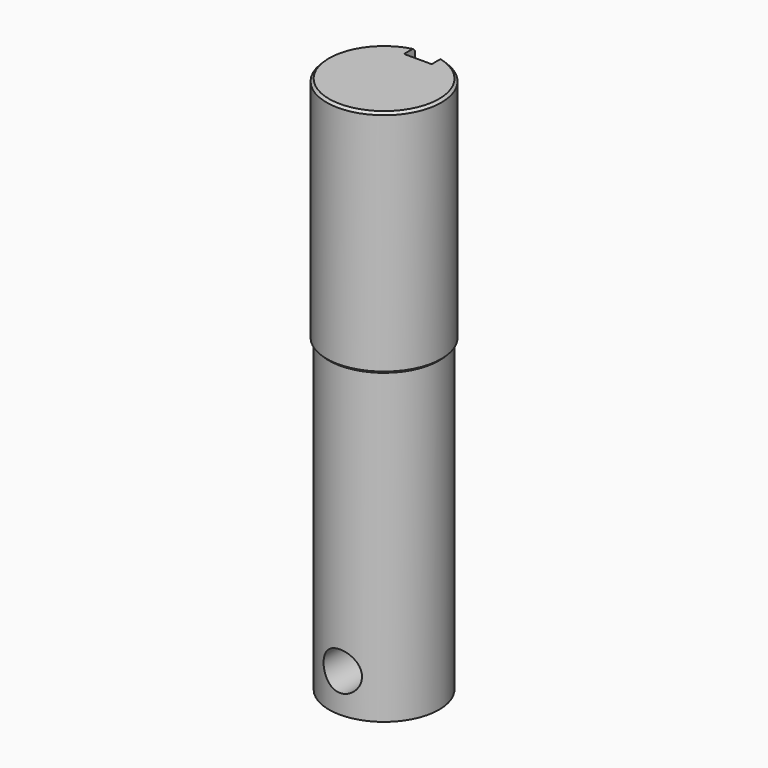
from build123d import *

# Parameters (mm, degrees)
F0_R     = 18.9865
F1_DEPTH = 38.1
F2_SIZE  = 0.79375
F4_DEPTH = 4.572
F5_R     = 18.19275
F6_DEPTH = 101.6
F7_R     = 6.35
F8_DEPTH = 38.1


with BuildPart() as f1:
    # F0 (on Top) → F1 (new body, symmetric)
    with BuildSketch(Plane.XY):
        Circle(F0_R)
    extrude(amount=F1_DEPTH, both=True)

    # F2
    f2_edges = [f1.edges().sort_by_distance(p)[0] for p in [
        (-18.9865, 0, 38.1),
        (-18.9865, 0, -38.1),
    ]]
    chamfer(f2_edges, length=F2_SIZE)

    # F3 (on Right) → F4 (cut, symmetric)
    with BuildSketch(Plane.YZ):
        with BuildLine():
            Line((19.05, 38.1), (13.97, 38.1))
            Line((13.97, 38.1), (13.97, -12.7))
            ThreePointArc((13.97, -12.7), (15.4013111503, -16.7160926284), (19.05, -18.9217039467))
            Line((19.05, -18.9217039467), (19.05, 38.1))
        make_face()
    extrude(amount=F4_DEPTH, both=True, mode=Mode.SUBTRACT)

    # F5 (on face) → F6 (join)
    with BuildSketch(Plane(origin=(0, 0, -38.1), x_dir=(1, 0, 0), z_dir=(0, 0, -1))):
        Circle(F5_R)
    extrude(amount=F6_DEPTH)

    # F7 (on Front) → F8 (cut, symmetric)
    with BuildSketch(Plane.XZ):
        with Locations((0, -127)):
            Circle(F7_R)
    extrude(amount=F8_DEPTH, both=True, mode=Mode.SUBTRACT)


solid = f1.part
